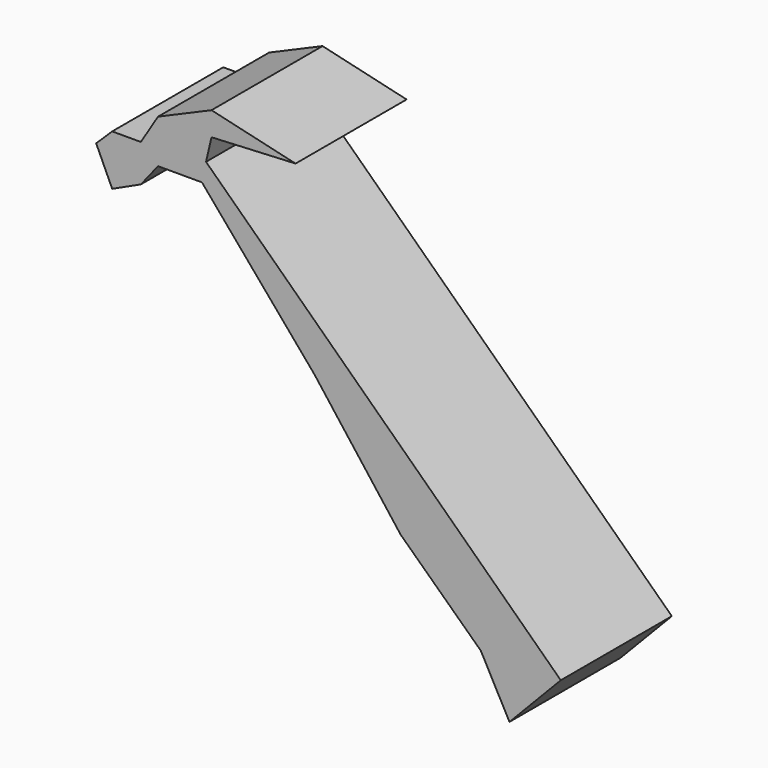
from build123d import *

# Parameters (mm, degrees)
F1_DEPTH = 25


with BuildPart() as f1:
    # F0 (on Front) → F1 (new body)
    with BuildSketch(Plane.XZ):
        Polygon((-22.308512, 65.634962), (-7.173568, 66.380389), (-22.308512, 69.92276), (-31.939834, 65.766536), (-35.035621, 60.745146), (-40.19526, 60.745146), (-43.080085, 57.918739), (-40.19526, 51.642127), (-35.035621, 54.013575), (-31.939834, 57.918739), (-24.028387, 57.918739), (-3.733804, 34.007698), (11.745115, 13.709802), (26.192112, 0), (31.351745, -9.609428), (40.589166, 0), (-23.296741, 61.412707), align=None)
    extrude(amount=F1_DEPTH)


solid = f1.part
